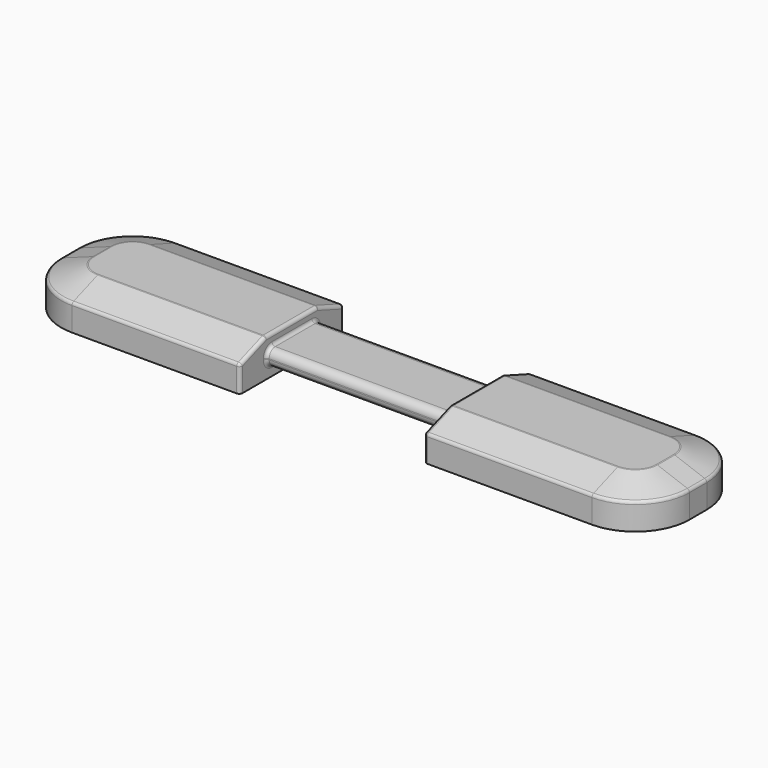
from build123d import *

# Parameters (mm, degrees)
F0_W       = 58
F0_H       = 12
F1_DEPTH   = 3.5
F2_W       = 14
F2_H       = 5
F2_W_2     = 6
F2_H_2     = 1.5
F3_DEPTH   = 8.5
F4_R       = 5
F5_SIZE2   = 1.0919107028
F5_SIZE    = 3
F5_2_SIZE2 = 1.0919107028
F5_2_SIZE  = 3
F6_R       = 0.7
F7_R       = 0.3


with BuildPart() as f1:
    # F0 (on Top) → F1 (new body)
    with BuildSketch(Plane.XY):
        Rectangle(F0_W, F0_H)
    extrude(amount=F1_DEPTH)

    # F2 (on Right) → F3 (cut, symmetric)
    with BuildSketch(Plane.YZ):
        with Locations((0, 1.75)):
            Rectangle(F2_W, F2_H)
        with Locations((0, 1.75)):
            Rectangle(F2_W_2, F2_H_2, mode=Mode.SUBTRACT)
    extrude(amount=F3_DEPTH, both=True, mode=Mode.SUBTRACT)

    # F4
    f4_edges = [f1.edges().sort_by_distance(p)[0] for p in [
        (29, -6, 1.75),
        (29, 6, 1.75),
        (-29, -6, 1.75),
        (-29, 6, 1.75),
    ]]
    fillet(f4_edges, radius=F4_R)

    # F5
    f5_edges = [f1.edges().sort_by_distance(p)[0] for p in [
        (16.25, -6, 3.5),
    ]]
    f5_side = f1.faces().sort_by_distance((18.333459, 0, 3.5))[0]
    chamfer(f5_edges, length=F5_SIZE, length2=F5_SIZE2, reference=f5_side)

    # F5#2
    f5_2_edges = [f1.edges().sort_by_distance(p)[0] for p in [
        (-16.25, -6, 3.5),
    ]]
    f5_2_side = f1.faces().sort_by_distance((-18.333459, 0, 3.5))[0]
    chamfer(f5_2_edges, length=F5_2_SIZE, length2=F5_2_SIZE2, reference=f5_2_side)

    # F6
    f6_edges = [f1.edges().sort_by_distance(p)[0] for p in [
        (0, 3, 2.5),
        (0, -3, 2.5),
        (0, -3, 1),
        (0, 3, 1),
    ]]
    fillet(f6_edges, radius=F6_R)

    # F7
    f7_edges = [f1.edges().sort_by_distance(p)[0] for p in [
        (8.5, 0, 2.5),
        (-8.5, 0, 2.5),
        (-8.5, 0, 3.5),
        (-8.5, -4.5, 2.954045),
        (-8.5, -6, 1.204045),
        (-8.5, 4.5, 2.954045),
        (-8.5, 6, 1.204045),
        (8.5, 6, 1.204045),
        (8.5, 4.5, 2.954045),
        (8.5, 0, 3.5),
        (8.5, -4.5, 2.954045),
        (8.5, -6, 1.204045),
        (16.25, -6, 2.408089),
        (25.414214, -2.414214, 3.5),
        (-25.414214, -2.414214, 3.5),
        (-27.535534, -4.535534, 2.408089),
    ]]
    fillet(f7_edges, radius=F7_R)


solid = f1.part
